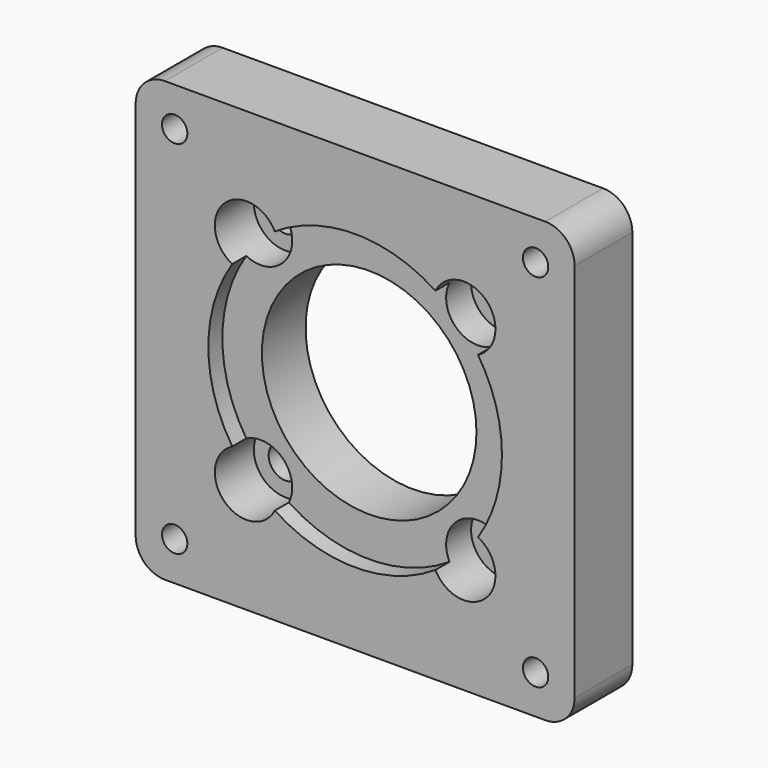
from build123d import *

# Parameters (mm, degrees)
F0_W     = 57.15
F0_H     = 57.15
F0_R     = 1.64973
F0_R_2   = 2.1971
F0_R_3   = 13.97
F1_DEPTH = 9.398
F2_R     = 4.12496
F2_R_2   = 2.1971
F3_DEPTH = 6.35
F4_R     = 13.97
F5_DEPTH = 2.286
F6_R     = 3.81


with BuildPart() as f1:
    # F0 (on Front) → F1 (new body)
    with BuildSketch(Plane.XZ):
        Rectangle(F0_W, F0_H)
        with Locations((-23.495, -23.495)):
            Circle(F0_R, mode=Mode.SUBTRACT)
        with Locations((-14.142107, -14.142107)):
            Circle(F0_R_2, mode=Mode.SUBTRACT)
        with Locations((23.495, -23.495)):
            Circle(F0_R, mode=Mode.SUBTRACT)
        with Locations((14.142107, -14.142107)):
            Circle(F0_R_2, mode=Mode.SUBTRACT)
        with Locations((-14.142107, 14.142107)):
            Circle(F0_R_2, mode=Mode.SUBTRACT)
        with Locations((-23.495, 23.495)):
            Circle(F0_R, mode=Mode.SUBTRACT)
        Circle(F0_R_3, mode=Mode.SUBTRACT)
        with Locations((14.142107, 14.142107)):
            Circle(F0_R_2, mode=Mode.SUBTRACT)
        with Locations((23.495, 23.495)):
            Circle(F0_R, mode=Mode.SUBTRACT)
    extrude(amount=F1_DEPTH)

    # F2 (on face) → F3 (cut)
    with BuildSketch(Plane.XZ.offset(9.398)):
        with Locations((-14.142107, 14.142107)):
            Circle(F2_R)
        with Locations((-14.142107, 14.142107)):
            Circle(F2_R_2, mode=Mode.SUBTRACT)
        with Locations((14.142107, 14.142107)):
            Circle(F2_R)
        with Locations((14.142107, 14.142107)):
            Circle(F2_R_2, mode=Mode.SUBTRACT)
        with Locations((14.142107, -14.142107)):
            Circle(F2_R)
        with Locations((14.142107, -14.142107)):
            Circle(F2_R_2, mode=Mode.SUBTRACT)
        with Locations((-14.142107, -14.142107)):
            Circle(F2_R)
        with Locations((-14.142107, -14.142107)):
            Circle(F2_R_2, mode=Mode.SUBTRACT)
    extrude(amount=-F3_DEPTH, mode=Mode.SUBTRACT)

    # F4 (on face) → F5 (cut)
    with BuildSketch(Plane.XZ.offset(9.398)):
        with BuildLine():
            ThreePointArc((15.99836, -10.458411), (18.318168, -5.456245), (19.1135, 0))
            ThreePointArc((19.1135, 0), (18.318168, 5.456245), (15.99836, 10.458411))
            ThreePointArc((15.99836, 10.458411), (11.22532, 11.22532), (10.458411, 15.99836))
            ThreePointArc((10.458411, 15.99836), (0, 19.1135), (-10.458411, 15.99836))
            ThreePointArc((-10.458411, 15.99836), (-10.128979, 15.096097), (-10.017147, 14.142107))
            ThreePointArc((-10.017147, 14.142107), (-11.97897, 10.629824), (-15.99836, 10.458411))
            ThreePointArc((-15.99836, 10.458411), (-19.1135, 0), (-15.99836, -10.458411))
            ThreePointArc((-15.99836, -10.458411), (-11.97897, -10.629824), (-10.017147, -14.142107))
            ThreePointArc((-10.017147, -14.142107), (-10.128979, -15.096097), (-10.458411, -15.99836))
            ThreePointArc((-10.458411, -15.99836), (0, -19.1135), (10.458411, -15.99836))
            ThreePointArc((10.458411, -15.99836), (11.22532, -11.22532), (15.99836, -10.458411))
        make_face()
        Circle(F4_R, mode=Mode.SUBTRACT)
    extrude(amount=-F5_DEPTH, mode=Mode.SUBTRACT)

    # F6
    f6_edges = [f1.edges().sort_by_distance(p)[0] for p in [
        (-28.575, -4.699, 28.575),
        (28.575, -4.699, 28.575),
        (28.575, -4.699, -28.575),
        (-28.575, -4.699, -28.575),
    ]]
    fillet(f6_edges, radius=F6_R)


solid = f1.part
